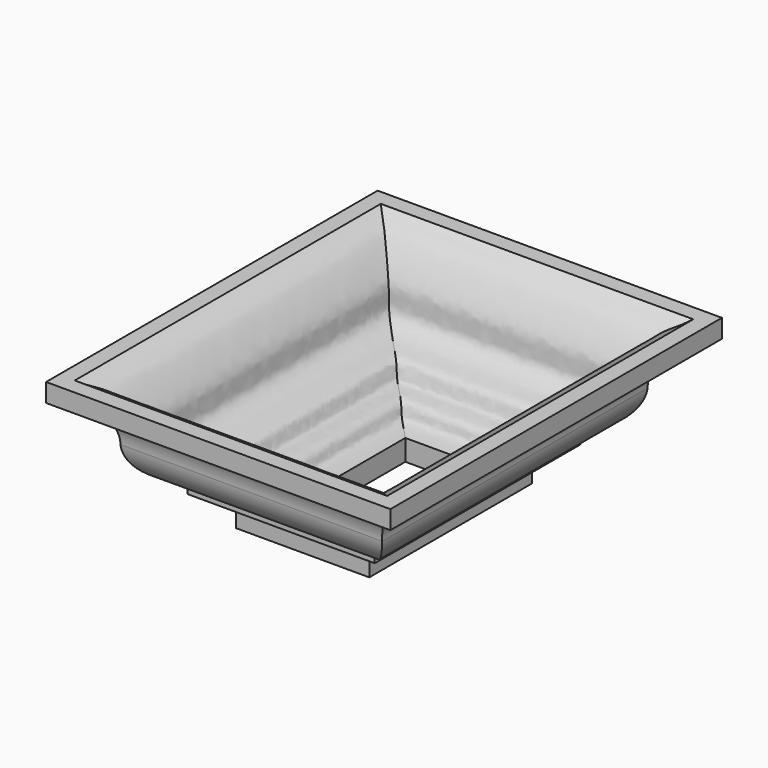
from build123d import *


with BuildPart() as f2:
    # F2: sweep along a path in F1
    with BuildLine(Plane.XY) as f2_path:
        Line((13.3439283818, -28.7193134427), (-40.4787473381, -28.7193134427))
        Line((-40.4787473381, -28.7193134427), (-40.4787473381, 53.486764431))
        Line((-40.4787473381, 53.486764431), (13.3439283818, 53.486764431))
        Line((13.3439283818, 53.486764431), (13.3439283818, 11.667445302))
        Line((13.3439283818, 11.667445302), (13.3439283818, -28.7193134427))
    # F0 (on Front) → F2 (sweep)
    with BuildSketch(Plane.XZ):
        with BuildLine():
            Line((0, 8.5121775046), (0, 0))
            Line((0, 0), (13.3921811357, 0))
            Line((13.3921811357, 0), (13.3921811357, 8.2788057625))
            ThreePointArc((13.3921811357, 8.2788057625), (16.8075604166, 9.673132723), (18.2712842976, 13.0593512194))
            Line((18.2712842976, 13.0593512194), (24.3494156748, 13.0593512194))
            Line((24.3494156748, 13.0593512194), (24.3494156748, 17.9752986878))
            ThreePointArc((24.3494156748, 17.9752986878), (34.6217651079, 22.0041985698), (39.4161104528, 31.9423799853))
            ThreePointArc((39.4161104528, 31.9423799853), (44.3471508293, 43.5665580032), (56.1322053978, 48.0996764223))
            Line((56.1322053978, 48.0996764223), (56.1322053978, 55.5962100625))
            Line((56.1322053978, 55.5962100625), (49.6905073524, 55.5962100625))
            add(Edge.make_bspline(
                [(49.6905073524, 55.5962100625), (48.6936376278, 54.9004747909), (46.6422512998, 53.4687713408), (42.6016447056, 51.8366748213), (40.7981538049, 49.3893206326), (38.0330909264, 46.0829063641), (34.7150004839, 40.5764308383), (33.167682033, 36.9373149383), (33.6339750762, 30.6257000332), (30.5859711438, 27.0744107241), (25.235009981, 24.424805886), (21.2644312989, 23.8538813228), (17.4480579702, 21.9992891045), (17.4055346789, 15.9806905192), (10.2865195221, 16.5539293906), (7.7398944423, 13.591842076), (7.7126552897, 9.9093665828), (2.9410855944, 9.0449710129), (0, 8.5121775046)],
                knots=[0, 0, 0, 0, 0.0569475799, 0.1171883186, 0.1672440846, 0.2284609095, 0.3025292356, 0.3617283487, 0.4327740184, 0.4947311391, 0.5654930439, 0.6250506173, 0.6816269865, 0.744796514, 0.8160054119, 0.8706869109, 0.920294392, 1, 1, 1, 1], degree=3))
        make_face()
    sweep(path=f2_path.line, transition=Transition.RIGHT)


solid = f2.part
